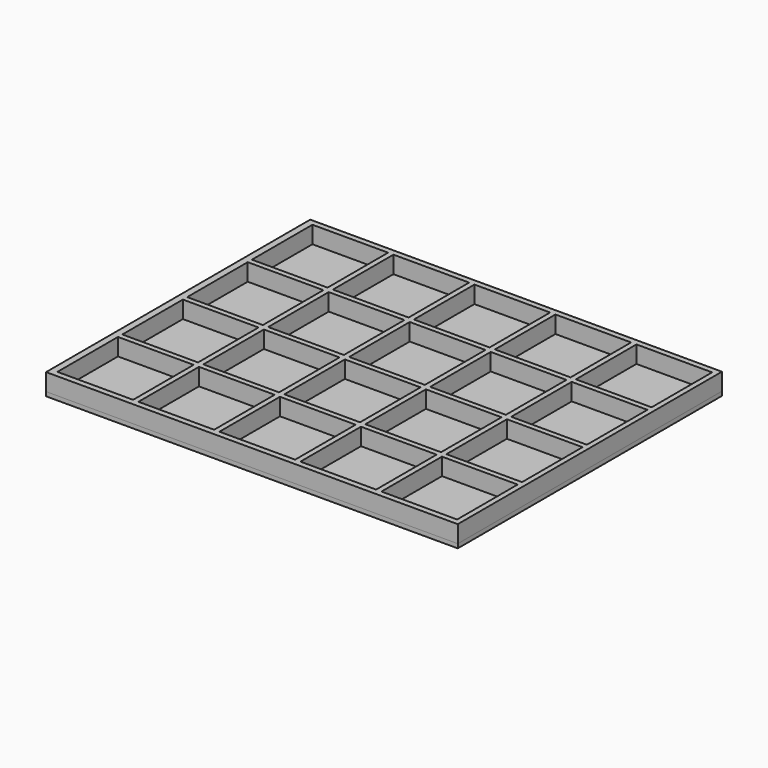
from build123d import *

# Parameters (mm, degrees)
F0_W     = 119.688
F0_H     = 96
F0_W_2   = 22
F0_H_2   = 22
F0_W_3   = 21.999999
F1_DEPTH = 1.2
F2_DEPTH = 5


with BuildPart() as f1:
    # F0 (on Top) → F1 (new body)
    with BuildSketch(Plane.XY):
        Rectangle(F0_W, F0_H)
        with Locations((-46.903828, -35.3)):
            Rectangle(F0_W_2, F0_H_2, mode=Mode.SUBTRACT)
        with Locations((-23.353828, -35.3)):
            Rectangle(F0_W_2, F0_H_2, mode=Mode.SUBTRACT)
        with Locations((-46.8744295, -11.748823)):
            Rectangle(F0_W_3, F0_H_2, mode=Mode.SUBTRACT)
        with Locations((-23.32443, -11.748823)):
            Rectangle(F0_W_2, F0_H_2, mode=Mode.SUBTRACT)
        with Locations((0.196172, -35.3)):
            Rectangle(F0_W_2, F0_H_2, mode=Mode.SUBTRACT)
        with Locations((23.746172, -35.3)):
            Rectangle(F0_W_2, F0_H_2, mode=Mode.SUBTRACT)
        with Locations((47.296172, -35.3)):
            Rectangle(F0_W_2, F0_H_2, mode=Mode.SUBTRACT)
        with Locations((0.22557, -11.748823)):
            Rectangle(F0_W_2, F0_H_2, mode=Mode.SUBTRACT)
        with Locations((23.77557, -11.748823)):
            Rectangle(F0_W_2, F0_H_2, mode=Mode.SUBTRACT)
        with Locations((47.32557, -11.748823)):
            Rectangle(F0_W_2, F0_H_2, mode=Mode.SUBTRACT)
        with Locations((-46.859731, 11.802354)):
            Rectangle(F0_W_2, F0_H_2, mode=Mode.SUBTRACT)
        with Locations((-23.309731, 11.802354)):
            Rectangle(F0_W_2, F0_H_2, mode=Mode.SUBTRACT)
        with Locations((-46.889129, 35.35353)):
            Rectangle(F0_W_2, F0_H_2, mode=Mode.SUBTRACT)
        with Locations((-23.339129, 35.35353)):
            Rectangle(F0_W_2, F0_H_2, mode=Mode.SUBTRACT)
        with Locations((0.240269, 11.802354)):
            Rectangle(F0_W_2, F0_H_2, mode=Mode.SUBTRACT)
        with Locations((23.790269, 11.802354)):
            Rectangle(F0_W_2, F0_H_2, mode=Mode.SUBTRACT)
        with Locations((47.340269, 11.802354)):
            Rectangle(F0_W_2, F0_H_2, mode=Mode.SUBTRACT)
        with Locations((0.210871, 35.35353)):
            Rectangle(F0_W_2, F0_H_2, mode=Mode.SUBTRACT)
        with Locations((23.760871, 35.35353)):
            Rectangle(F0_W_2, F0_H_2, mode=Mode.SUBTRACT)
        with Locations((47.310871, 35.35353)):
            Rectangle(F0_W_2, F0_H_2, mode=Mode.SUBTRACT)
        with Locations((47.310871, 35.35353)):
            Rectangle(F0_W_2, F0_H_2)
        with Locations((47.340269, 11.802354)):
            Rectangle(F0_W_2, F0_H_2)
        with Locations((23.746172, -35.3)):
            Rectangle(F0_W_2, F0_H_2)
        with Locations((23.790269, 11.802354)):
            Rectangle(F0_W_2, F0_H_2)
        with Locations((23.77557, -11.748823)):
            Rectangle(F0_W_2, F0_H_2)
        with Locations((-46.903828, -35.3)):
            Rectangle(F0_W_2, F0_H_2)
        with Locations((-23.339129, 35.35353)):
            Rectangle(F0_W_2, F0_H_2)
        with Locations((-23.309731, 11.802354)):
            Rectangle(F0_W_2, F0_H_2)
        with Locations((-23.32443, -11.748823)):
            Rectangle(F0_W_2, F0_H_2)
        with Locations((-23.353828, -35.3)):
            Rectangle(F0_W_2, F0_H_2)
        with Locations((0.210871, 35.35353)):
            Rectangle(F0_W_2, F0_H_2)
        with Locations((0.240269, 11.802354)):
            Rectangle(F0_W_2, F0_H_2)
        with Locations((0.22557, -11.748823)):
            Rectangle(F0_W_2, F0_H_2)
        with Locations((0.196172, -35.3)):
            Rectangle(F0_W_2, F0_H_2)
        with Locations((23.760871, 35.35353)):
            Rectangle(F0_W_2, F0_H_2)
        with Locations((47.32557, -11.748823)):
            Rectangle(F0_W_2, F0_H_2)
        with Locations((47.296172, -35.3)):
            Rectangle(F0_W_2, F0_H_2)
        with Locations((-46.889129, 35.35353)):
            Rectangle(F0_W_2, F0_H_2)
        with Locations((-46.859731, 11.802354)):
            Rectangle(F0_W_2, F0_H_2)
        with Locations((-46.8744295, -11.748823)):
            Rectangle(F0_W_3, F0_H_2)
    extrude(amount=-F1_DEPTH)


with BuildPart() as f2:
    # F0 (on Top) → F2 (new body)
    with BuildSketch(Plane.XY):
        Rectangle(F0_W, F0_H)
        with Locations((-46.903828, -35.3)):
            Rectangle(F0_W_2, F0_H_2, mode=Mode.SUBTRACT)
        with Locations((-23.353828, -35.3)):
            Rectangle(F0_W_2, F0_H_2, mode=Mode.SUBTRACT)
        with Locations((-46.8744295, -11.748823)):
            Rectangle(F0_W_3, F0_H_2, mode=Mode.SUBTRACT)
        with Locations((-23.32443, -11.748823)):
            Rectangle(F0_W_2, F0_H_2, mode=Mode.SUBTRACT)
        with Locations((0.196172, -35.3)):
            Rectangle(F0_W_2, F0_H_2, mode=Mode.SUBTRACT)
        with Locations((23.746172, -35.3)):
            Rectangle(F0_W_2, F0_H_2, mode=Mode.SUBTRACT)
        with Locations((47.296172, -35.3)):
            Rectangle(F0_W_2, F0_H_2, mode=Mode.SUBTRACT)
        with Locations((0.22557, -11.748823)):
            Rectangle(F0_W_2, F0_H_2, mode=Mode.SUBTRACT)
        with Locations((23.77557, -11.748823)):
            Rectangle(F0_W_2, F0_H_2, mode=Mode.SUBTRACT)
        with Locations((47.32557, -11.748823)):
            Rectangle(F0_W_2, F0_H_2, mode=Mode.SUBTRACT)
        with Locations((-46.859731, 11.802354)):
            Rectangle(F0_W_2, F0_H_2, mode=Mode.SUBTRACT)
        with Locations((-23.309731, 11.802354)):
            Rectangle(F0_W_2, F0_H_2, mode=Mode.SUBTRACT)
        with Locations((-46.889129, 35.35353)):
            Rectangle(F0_W_2, F0_H_2, mode=Mode.SUBTRACT)
        with Locations((-23.339129, 35.35353)):
            Rectangle(F0_W_2, F0_H_2, mode=Mode.SUBTRACT)
        with Locations((0.240269, 11.802354)):
            Rectangle(F0_W_2, F0_H_2, mode=Mode.SUBTRACT)
        with Locations((23.790269, 11.802354)):
            Rectangle(F0_W_2, F0_H_2, mode=Mode.SUBTRACT)
        with Locations((47.340269, 11.802354)):
            Rectangle(F0_W_2, F0_H_2, mode=Mode.SUBTRACT)
        with Locations((0.210871, 35.35353)):
            Rectangle(F0_W_2, F0_H_2, mode=Mode.SUBTRACT)
        with Locations((23.760871, 35.35353)):
            Rectangle(F0_W_2, F0_H_2, mode=Mode.SUBTRACT)
        with Locations((47.310871, 35.35353)):
            Rectangle(F0_W_2, F0_H_2, mode=Mode.SUBTRACT)
    extrude(amount=F2_DEPTH)


solid = Compound([f1.part, f2.part])
